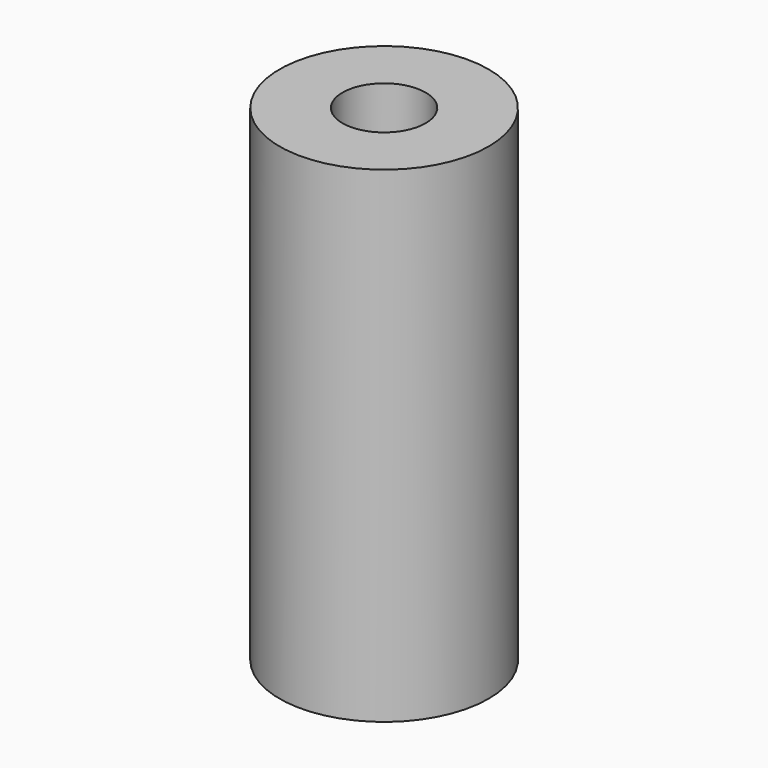
from build123d import *

# Parameters (mm, degrees)
F0_R     = 4.15
F0_R_2   = 3.25
F1_DEPTH = 6.3
F2_R     = 4.15
F3_DEPTH = 1
F4_R     = 1.65
F5_DEPTH = 1
F6_R     = 4.15
F6_R_2   = 1.65
F7_DEPTH = 12


with BuildPart() as f1:
    # F0 (on Top) → F1 (new body)
    with BuildSketch(Plane.XY):
        Circle(F0_R)
        Circle(F0_R_2, mode=Mode.SUBTRACT)
    extrude(amount=F1_DEPTH)

    # F2 (on face) → F3 (join)
    with BuildSketch(Plane.XY.offset(6.3)):
        Circle(F2_R)
    extrude(amount=F3_DEPTH)

    # F4 (on face) → F5 (cut, through all)
    with BuildSketch(Plane.XY.offset(7.3)):
        Circle(F4_R)
    extrude(amount=-F5_DEPTH, mode=Mode.SUBTRACT)

    # F6 (on face) → F7 (join)
    with BuildSketch(Plane.XY.offset(7.3)):
        Circle(F6_R)
        Circle(F6_R_2, mode=Mode.SUBTRACT)
    extrude(amount=F7_DEPTH)


solid = f1.part
